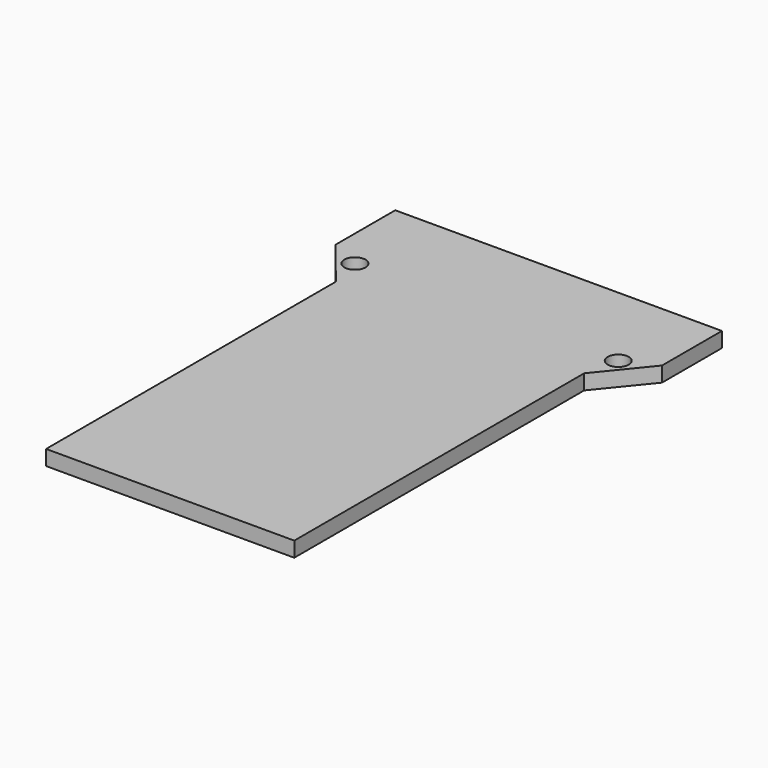
from build123d import *

# Parameters (mm, degrees)
F0_R     = 1.75
F1_DEPTH = 2.5


with BuildPart() as f1:
    # F0 (on Top) → F1 (new body)
    with BuildSketch(Plane.XY):
        Polygon((-27.05, 8), (-20.55, 0), (-20.55, -60), (0, -60), (20.55, -60), (20.55, 0), (27.05, 8), (27.05, 20.4), (0, 20.4), (-27.05, 20.4), align=None)
        with Locations((-21.8, 5.5)):
            Circle(F0_R, mode=Mode.SUBTRACT)
        with Locations((21.8, 5.5)):
            Circle(F0_R, mode=Mode.SUBTRACT)
    extrude(amount=F1_DEPTH)


solid = f1.part
